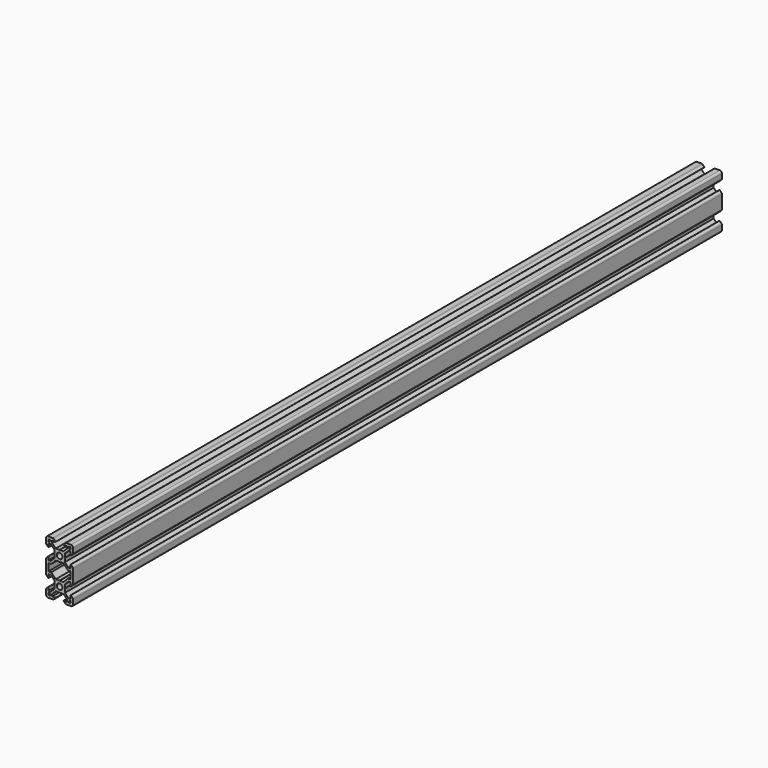
from build123d import *

# Parameters (mm, degrees)
F2_DEPTH = 600


with BuildPart() as f2:
    # F0 (on Front) → F2 (new body)
    with BuildSketch(Plane.XZ):
        with BuildLine():
            Line((5.0927712857, 0), (1.5, 0))
            ThreePointArc((1.5, 0), (0.4393398282, -0.4393398282), (0, -1.5))
            Line((0, -1.5), (0, -5.0927712857))
            ThreePointArc((0, -5.0927712857), (0.0601351693, -5.3950911973), (0.2313856429, -5.6513856429))
            Line((0.2313856429, -5.6513856429), (1.69, -7.11))
            Line((1.69, -7.11), (1.8, -7.11))
            Line((1.8, -7.11), (1.8, -4.5006601718))
            Line((1.8, -4.5006601718), (3.44, -4.5006601718))
            Line((3.44, -4.5006601718), (6.1000000155, -7.1606601718))
            Line((6.1000000155, -7.1606601718), (6.1000000155, -9.9))
            Line((6.1000000155, -9.9), (6.2000000155, -10))
            Line((6.2000000155, -10), (6.1000000155, -10.1))
            Line((6.1000000155, -10.1), (6.1000000155, -12.8393398605))
            Line((6.1000000155, -12.8393398605), (3.44, -15.4993398916))
            Line((3.44, -15.4993398916), (1.8, -15.4993398916))
            Line((1.8, -15.4993398916), (1.8, -12.8893398916))
            Line((1.8, -12.8893398916), (1.69, -12.8893398916))
            Line((1.69, -12.8893398916), (0.2313856429, -14.3479542487))
            ThreePointArc((0.2313856429, -14.3479542487), (0.0601351693, -14.6042486943), (0, -14.9065686059))
            Line((0, -14.9065686059), (0, -20))
            Line((0, -20), (0, -25.0934313941))
            ThreePointArc((0, -25.0934313941), (0.0601351693, -25.3957513057), (0.2313856429, -25.6520457513))
            Line((0.2313856429, -25.6520457513), (1.69, -27.1106601084))
            Line((1.69, -27.1106601084), (1.8, -27.1106601084))
            Line((1.8, -27.1106601084), (1.8, -24.5006601084))
            Line((1.8, -24.5006601084), (3.44, -24.5006601084))
            Line((3.44, -24.5006601084), (6.1000000155, -27.1606601395))
            Line((6.1000000155, -27.1606601395), (6.1000000155, -29.9))
            Line((6.1000000155, -29.9), (6.2000000155, -30))
            Line((6.2000000155, -30), (6.1000000155, -30.1))
            Line((6.1000000155, -30.1), (6.1000000155, -32.8393398282))
            Line((6.1000000155, -32.8393398282), (3.44, -35.4993398282))
            Line((3.44, -35.4993398282), (1.8, -35.4993398282))
            Line((1.8, -35.4993398282), (1.8, -32.89))
            Line((1.8, -32.89), (1.69, -32.89))
            Line((1.69, -32.89), (0.2313856429, -34.3486143571))
            ThreePointArc((0.2313856429, -34.3486143571), (0.0601351693, -34.6049088027), (0, -34.9072287143))
            Line((0, -34.9072287143), (0, -38.5))
            ThreePointArc((0, -38.5), (0.4393398282, -39.5606601718), (1.5, -40))
            Line((1.5, -40), (5.0927712857, -40))
            ThreePointArc((5.0927712857, -40), (5.3950911973, -39.9398648307), (5.6513856429, -39.7686143571))
            Line((5.6513856429, -39.7686143571), (7.11, -38.31))
            Line((7.11, -38.31), (7.11, -38.2))
            Line((7.11, -38.2), (4.5006601718, -38.2))
            Line((4.5006601718, -38.2), (4.5006601718, -36.56))
            Line((4.5006601718, -36.56), (7.1606601873, -33.9))
            Line((7.1606601873, -33.9), (9.9000000155, -33.9))
            Line((9.9000000155, -33.9), (10.0000000478, -33.8000000323))
            Line((10.0000000478, -33.8000000323), (10.1000000802, -33.9))
            Line((10.1000000802, -33.9), (12.8393399084, -33.9))
            Line((12.8393399084, -33.9), (15.4993399239, -36.56))
            Line((15.4993399239, -36.56), (15.4993399239, -38.2))
            Line((15.4993399239, -38.2), (12.8900000957, -38.2))
            Line((12.8900000957, -38.2), (12.8900000957, -38.31))
            Line((12.8900000957, -38.31), (14.3486144528, -39.7686143571))
            ThreePointArc((14.3486144528, -39.7686143571), (14.6049088984, -39.9398648307), (14.90722881, -40))
            Line((14.90722881, -40), (18.5000000957, -40))
            ThreePointArc((18.5000000957, -40), (19.5606602675, -39.5606601718), (20.0000000957, -38.5))
            Line((20.0000000957, -38.5), (20.0000000957, -34.9072287143))
            ThreePointArc((20.0000000957, -34.9072287143), (19.9398649264, -34.6049088027), (19.7686144528, -34.3486143571))
            Line((19.7686144528, -34.3486143571), (18.3100000957, -32.89))
            Line((18.3100000957, -32.89), (18.2000000957, -32.89))
            Line((18.2000000957, -32.89), (18.2000000957, -35.4993398282))
            Line((18.2000000957, -35.4993398282), (16.5600000957, -35.4993398282))
            Line((16.5600000957, -35.4993398282), (13.9000000802, -32.8393398282))
            Line((13.9000000802, -32.8393398282), (13.9000000802, -30.1))
            Line((13.9000000802, -30.1), (13.8000000802, -30))
            Line((13.8000000802, -30), (13.9000000802, -29.9))
            Line((13.9000000802, -29.9), (13.9000000802, -27.1606601395))
            Line((13.9000000802, -27.1606601395), (16.5600000957, -24.5006601084))
            Line((16.5600000957, -24.5006601084), (18.2000000957, -24.5006601084))
            Line((18.2000000957, -24.5006601084), (18.2000000957, -27.1106601084))
            Line((18.2000000957, -27.1106601084), (18.3100000957, -27.1106601084))
            Line((18.3100000957, -27.1106601084), (19.7686144528, -25.6520457513))
            ThreePointArc((19.7686144528, -25.6520457513), (19.9398649264, -25.3957513057), (20.0000000957, -25.0934313941))
            Line((20.0000000957, -25.0934313941), (20.0000000957, -20))
            Line((20.0000000957, -20), (20.0000000957, -14.9065686059))
            ThreePointArc((20.0000000957, -14.9065686059), (19.9398649264, -14.6042486943), (19.7686144528, -14.3479542487))
            Line((19.7686144528, -14.3479542487), (18.3100000957, -12.8893398916))
            Line((18.3100000957, -12.8893398916), (18.2000000957, -12.8893398916))
            Line((18.2000000957, -12.8893398916), (18.2000000957, -15.4993398916))
            Line((18.2000000957, -15.4993398916), (16.5600000957, -15.4993398916))
            Line((16.5600000957, -15.4993398916), (13.9000000802, -12.8393398605))
            Line((13.9000000802, -12.8393398605), (13.9000000802, -10.1))
            Line((13.9000000802, -10.1), (13.8000000802, -10))
            Line((13.8000000802, -10), (13.9000000802, -9.9))
            Line((13.9000000802, -9.9), (13.9000000802, -7.1606601718))
            Line((13.9000000802, -7.1606601718), (16.5600000957, -4.5006601718))
            Line((16.5600000957, -4.5006601718), (18.2000000957, -4.5006601718))
            Line((18.2000000957, -4.5006601718), (18.2000000957, -7.11))
            Line((18.2000000957, -7.11), (18.3100000957, -7.11))
            Line((18.3100000957, -7.11), (19.7686144528, -5.6513856429))
            ThreePointArc((19.7686144528, -5.6513856429), (19.9398649264, -5.3950911973), (20.0000000957, -5.0927712857))
            Line((20.0000000957, -5.0927712857), (20.0000000957, -1.5))
            ThreePointArc((20.0000000957, -1.5), (19.5606602675, -0.4393398282), (18.5000000957, 0))
            Line((18.5000000957, 0), (14.90722881, 0))
            ThreePointArc((14.90722881, 0), (14.6049088984, -0.0601351693), (14.3486144528, -0.2313856429))
            Line((14.3486144528, -0.2313856429), (12.8900000957, -1.69))
            Line((12.8900000957, -1.69), (12.8900000957, -1.8))
            Line((12.8900000957, -1.8), (15.4993399239, -1.8))
            Line((15.4993399239, -1.8), (15.4993399239, -3.44))
            Line((15.4993399239, -3.44), (12.8393399084, -6.1))
            Line((12.8393399084, -6.1), (10.1000000802, -6.1))
            Line((10.1000000802, -6.1), (10.0000000478, -6.1999999677))
            Line((10.0000000478, -6.1999999677), (9.9000000155, -6.1))
            Line((9.9000000155, -6.1), (7.1606601873, -6.1))
            Line((7.1606601873, -6.1), (4.5006601718, -3.44))
            Line((4.5006601718, -3.44), (4.5006601718, -1.8))
            Line((4.5006601718, -1.8), (7.11, -1.8))
            Line((7.11, -1.8), (7.11, -1.69))
            Line((7.11, -1.69), (5.6513856429, -0.2313856429))
            ThreePointArc((5.6513856429, -0.2313856429), (5.3950911973, -0.0601351693), (5.0927712857, 0))
        make_face()
        Polygon((1.8, -38.2), (1.8, -36.57), (2.34, -36.57), (3.43, -37.66), (3.43, -38.2), align=None, mode=Mode.SUBTRACT)
        with BuildLine():
            ThreePointArc((10.0000000478, -27.9), (11.4849242883, -28.5150757595), (12.1000000478, -30))
            ThreePointArc((12.1000000478, -30), (11.4849242883, -31.4849242405), (10.0000000478, -32.1))
            ThreePointArc((10.0000000478, -32.1), (8.5150758074, -31.4849242405), (7.9000000478, -30))
            ThreePointArc((7.9000000478, -30), (8.5150758074, -28.5150757595), (10.0000000478, -27.9))
        make_face(mode=Mode.SUBTRACT)
        Polygon((17.6600000957, -36.57), (18.2000000957, -36.57), (18.2000000957, -38.2), (16.5700000957, -38.2), (16.5700000957, -37.66), align=None, mode=Mode.SUBTRACT)
        Polygon((9.9000000478, -13.9000000323), (10.0000000478, -13.8000000323), (10.1000000478, -13.9000000323), (12.8393399084, -13.9000000323), (16.2400000478, -17.3006601916), (18.2000000478, -17.3006601916), (18.2000000478, -20), (18.2000000478, -22.6993398084), (16.2400000478, -22.6993398084), (12.8393399084, -26.0999999677), (10.1000000478, -26.0999999677), (10.0000000478, -26.1999999677), (9.9000000478, -26.0999999677), (7.1606601873, -26.0999999677), (3.7600000478, -22.6993398084), (1.8000000478, -22.6993398084), (1.8000000478, -20), (1.8000000478, -17.3006601916), (3.7600000478, -17.3006601916), (7.1606601873, -13.9000000323), align=None, mode=Mode.SUBTRACT)
        Polygon((1.8, -3.43), (1.8, -1.8), (3.43, -1.8), (3.43, -2.34), (2.34, -3.43), align=None, mode=Mode.SUBTRACT)
        with BuildLine():
            ThreePointArc((7.9000000478, -10), (8.5150758074, -8.5150757595), (10.0000000478, -7.9))
            ThreePointArc((10.0000000478, -7.9), (11.4849242883, -8.5150757595), (12.1000000478, -10))
            ThreePointArc((12.1000000478, -10), (11.4849242883, -11.4849242405), (10.0000000478, -12.1))
            ThreePointArc((10.0000000478, -12.1), (8.5150758074, -11.4849242405), (7.9000000478, -10))
        make_face(mode=Mode.SUBTRACT)
        Polygon((16.5700000957, -2.34), (16.5700000957, -1.8), (18.2000000957, -1.8), (18.2000000957, -3.43), (17.6600000957, -3.43), align=None, mode=Mode.SUBTRACT)
    extrude(amount=F2_DEPTH)


solid = f2.part
